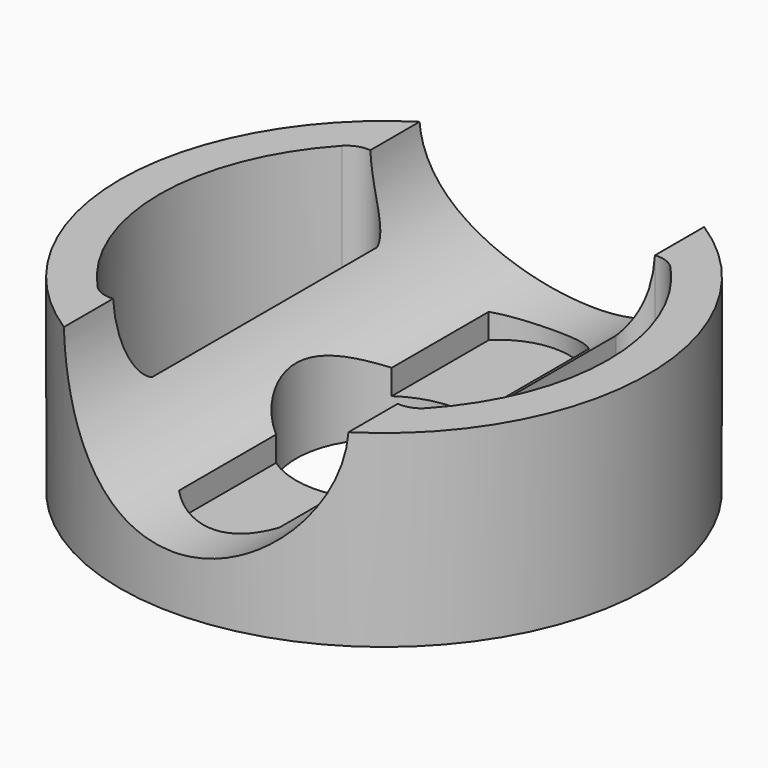
from build123d import *

# Parameters (mm, degrees)
F1_DEPTH  = 15
F3_DEPTH  = 12
F5_DEPTH  = 9
F6_R      = 5
F7_DEPTH  = 12
F8_R      = 1.55
F9_DEPTH  = 12
F10_W     = 5.7
F10_H     = 22
F11_DEPTH = 3
F12_R     = 15
F12_R_2   = 1.55
F12_R_3   = 5
F13_DEPTH = 0.85


with BuildPart() as f1:
    # F0 (on Front) → F1 (new body, symmetric)
    with BuildSketch(Plane.XZ):
        with BuildLine():
            Line((-15, -6), (0, -6))
            Line((0, -6), (0, -2.1))
            ThreePointArc((0, -2.1), (-5.5691301799, 0.1182664936), (-8.0879356988, 5.5580767803))
            Line((-8.0879356988, 5.5580767803), (-15, 5.5580767803))
            Line((-15, 5.5580767803), (-15, -6))
        make_face()
        with BuildLine():
            Line((0, -6), (15, -6))
            Line((15, -6), (15, 5.5580767803))
            Line((15, 5.5580767803), (8.0879356988, 5.5580767803))
            ThreePointArc((8.0879356988, 5.5580767803), (5.5691301799, 0.1182664936), (0, -2.1))
            Line((0, -2.1), (0, -6))
        make_face()
    extrude(amount=F1_DEPTH, both=True)

    # F2 (on face) → F3 (cut)
    with BuildSketch(Plane.XY.offset(5.5580767803)):
        with BuildLine():
            Line((-8.0879356988, -15), (-8.0879356988, -12.6327073952))
            ThreePointArc((-8.0879356988, -12.6327073952), (-13.1590089963, -7.2000334884), (-15, 3.9e-09))
            Line((-15, 3.9e-09), (-15, -15))
            Line((-15, -15), (-8.0879356988, -15))
        make_face()
        with BuildLine():
            Line((-8.0879356988, -15), (0, -15))
            ThreePointArc((0, -15), (-4.2136319887, -14.396017), (-8.0879356988, -12.6327073952))
            Line((-8.0879356988, -12.6327073952), (-8.0879356988, -15))
        make_face()
        with BuildLine():
            ThreePointArc((-15, 3.9e-09), (-13.1590089945, 7.2000334918), (-8.0879356988, 12.6327073952))
            Line((-8.0879356988, 12.6327073952), (-8.0879356988, 15))
            Line((-8.0879356988, 15), (-15, 15))
            Line((-15, 15), (-15, 3.9e-09))
        make_face()
        with BuildLine():
            ThreePointArc((-8.0879356988, 12.6327073952), (-4.2136319887, 14.396017), (0, 15))
            Line((0, 15), (-8.0879356988, 15))
            Line((-8.0879356988, 15), (-8.0879356988, 12.6327073952))
        make_face()
        with BuildLine():
            ThreePointArc((0, 15), (10.6066017178, 10.6066017178), (15, 0))
            Line((15, 0), (15, 15))
            Line((15, 15), (0, 15))
        make_face()
        with BuildLine():
            Line((15, -15), (15, 0))
            ThreePointArc((15, 0), (10.6066017178, -10.6066017178), (0, -15))
            Line((0, -15), (15, -15))
        make_face()
    extrude(amount=-F3_DEPTH, mode=Mode.SUBTRACT)

    # F4 (on face) → F5 (cut)
    with BuildSketch(Plane.XY.offset(5.5580767803)):
        with BuildLine():
            ThreePointArc((-6.7912821949, 7.9907824623), (-7.8555088498, 9.0941072404), (-9.3332321619, 8.6863845995))
            ThreePointArc((-9.3332321619, 8.6863845995), (-12.75, 0), (-9.3332321619, -8.6863845995))
            ThreePointArc((-9.3332321619, -8.6863845995), (-7.8555088498, -9.0941072404), (-6.7912821949, -7.9907824623))
            Line((-6.7912821949, -7.9907824623), (-6.7912821949, 7.9907824623))
        make_face()
        with BuildLine():
            ThreePointArc((9.3332321619, -8.6863845995), (11.8651002959, -4.6671077733), (12.75, 0))
            ThreePointArc((12.75, 0), (11.8651002959, 4.6671077733), (9.3332321619, 8.6863845995))
            ThreePointArc((9.3332321619, 8.6863845995), (8.7631851378, 9.0573015192), (8.0879356988, 9.1383642487))
            Line((8.0879356988, 9.1383642487), (8.0879356988, -9.1383642487))
            ThreePointArc((8.0879356988, -9.1383642487), (8.7631851378, -9.0573015192), (9.3332321619, -8.6863845995))
        make_face()
        with BuildLine():
            Line((8.0879356988, -9.1383642487), (8.0879356988, 9.1383642487))
            ThreePointArc((8.0879356988, 9.1383642487), (7.2573018203, 8.7705623118), (6.7912821949, 7.9907824623))
            Line((6.7912821949, 7.9907824623), (6.7912821949, -7.9907824623))
            ThreePointArc((6.7912821949, -7.9907824623), (7.2573018203, -8.7705623118), (8.0879356988, -9.1383642487))
        make_face()
    extrude(amount=-F5_DEPTH, mode=Mode.SUBTRACT)

    # F6 (on face) → F7 (cut)
    with BuildSketch(Plane(origin=(0, 0, -6), x_dir=(1, 0, 0), z_dir=(0, 0, -1))):
        Circle(F6_R)
    extrude(amount=-F7_DEPTH, mode=Mode.SUBTRACT)

    # F8 (on face) → F9 (cut)
    with BuildSketch(Plane(origin=(0, 0, -6), x_dir=(1, 0, 0), z_dir=(0, 0, -1))):
        with Locations((-9.5, 0)):
            Circle(F8_R)
        with Locations((9.5, 0)):
            Circle(F8_R)
    extrude(amount=-F9_DEPTH, mode=Mode.SUBTRACT)

    # F10 (on Top) → F11 (cut)
    with BuildSketch(Plane.XY):
        Rectangle(F10_W, F10_H)
        with BuildLine():
            Line((-2.85, 11), (2.85, 11))
            ThreePointArc((2.85, 11), (0, 12.1933115599), (-2.85, 11))
        make_face()
        with BuildLine():
            ThreePointArc((-2.85, -11), (0, -12.1933115599), (2.85, -11))
            Line((2.85, -11), (-2.85, -11))
        make_face()
    extrude(amount=-F11_DEPTH, mode=Mode.SUBTRACT)

    # F12 (on face) → F13 (cut)
    with BuildSketch(Plane(origin=(0, 0, -6), x_dir=(1, 0, 0), z_dir=(0, 0, -1))):
        Circle(F12_R)
        with Locations((-9.5, 0)):
            Circle(F12_R_2, mode=Mode.SUBTRACT)
        Circle(F12_R_3, mode=Mode.SUBTRACT)
        with Locations((9.5, 0)):
            Circle(F12_R_2, mode=Mode.SUBTRACT)
    extrude(amount=-F13_DEPTH, mode=Mode.SUBTRACT)


solid = f1.part
